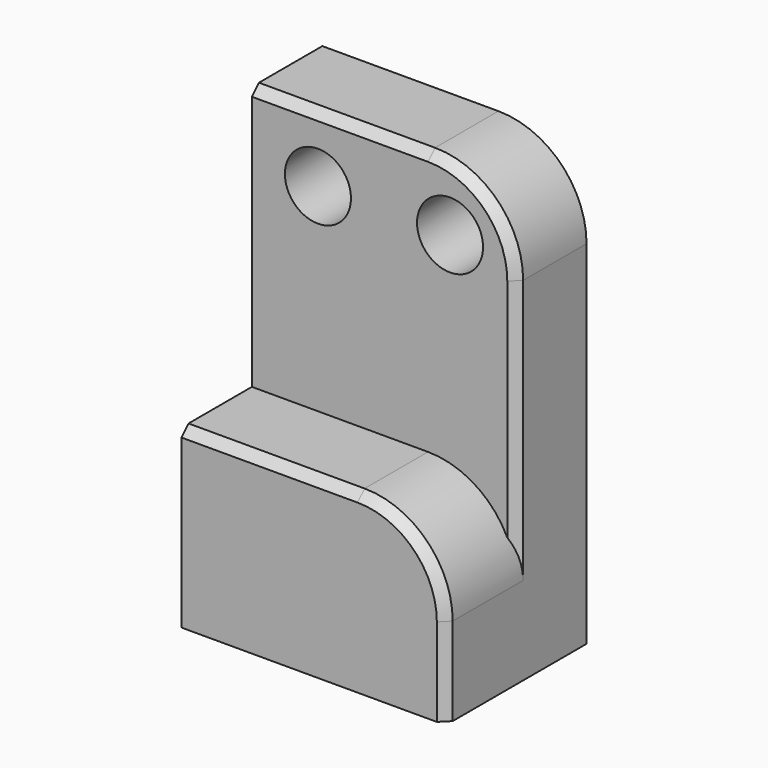
from build123d import *

# Parameters (mm, degrees)
F0_W     = 76.2
F0_H     = 127
F1_DEPTH = 25.4
F2_W     = 76.2
F2_H     = 50.8
F3_DEPTH = 25.4
F5_D     = 19.05
F6_R     = 25.4
F7_SIZE  = 2.54
F8_T     = -2.54


with BuildPart() as f1:
    # F0 (on Front) → F1 (new body)
    with BuildSketch(Plane.XZ):
        Rectangle(F0_W, F0_H)
    extrude(amount=F1_DEPTH)

    # F2 (on face) → F3 (join)
    with BuildSketch(Plane.XZ.offset(25.4)):
        with Locations((0, -38.1)):
            Rectangle(F2_W, F2_H)
    extrude(amount=F3_DEPTH)

    # F5 (through all)
    with Locations(Plane.XZ.offset(25.4)):
        with Locations((-19.05, 44.45), (19.05, 44.45)):
            Hole(F5_D / 2)

    # F6
    f6_edges = [f1.edges().sort_by_distance(p)[0] for p in [
        (38.1, -12.7, 63.5),
        (38.1, -38.1, -12.7),
    ]]
    fillet(f6_edges, radius=F6_R)

    # F7
    f7_edges = [f1.edges().sort_by_distance(p)[0] for p in [
        (-12.7, -25.4, 63.5),
        (-12.7, -50.8, -12.7),
    ]]
    chamfer(f7_edges, length=F7_SIZE)

    # F8
    f8_openings = [f1.faces().sort_by_distance(p)[0] for p in [
        (-0.03107, -25.379522, -63.5),
        (-0.500566, 0, -3.71782),
    ]]
    offset(amount=F8_T, openings=f8_openings, kind=Kind.INTERSECTION)


solid = f1.part
